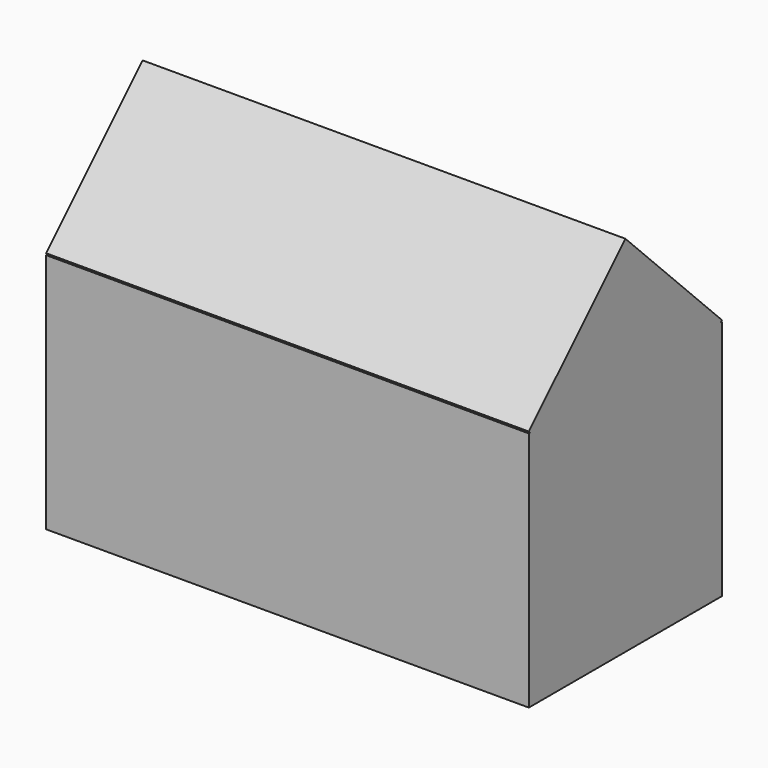
from build123d import *

# Parameters (mm, degrees)
BOX002_W               = 20
BOX002_H               = 7.071
BOX002_DEPTH           = 7.071
BOX002_PLACEMENT_ANGLE = 45
BOX001_W               = 20
BOX001_H               = 10
BOX001_DEPTH           = 10


with BuildPart() as cub002:
    # Box002 → Box002 (new body)
    with BuildSketch(Plane.XY):
        with Locations((10, 3.5355)):
            Rectangle(BOX002_W, BOX002_H)
    extrude(amount=BOX002_DEPTH)


with BuildPart() as cub002_1:
    # Box002 placement: moved
    add(cub002.part.moved(Location((-10, 0, 5.07))).rotate(Axis((-10, 0, 5.07), (1, 0, 0)), BOX002_PLACEMENT_ANGLE))


with BuildPart() as fusion:
    # Box001 → Box001 (new body)
    with BuildSketch(Plane(origin=(-10, -5, 0), x_dir=(1, 0, 0), z_dir=(0, 0, 1))):
        with Locations((10, 5)):
            Rectangle(BOX001_W, BOX001_H)
    extrude(amount=BOX001_DEPTH)

    # Fusion: union Cub002
    add(cub002_1.part)


solid = fusion.part
